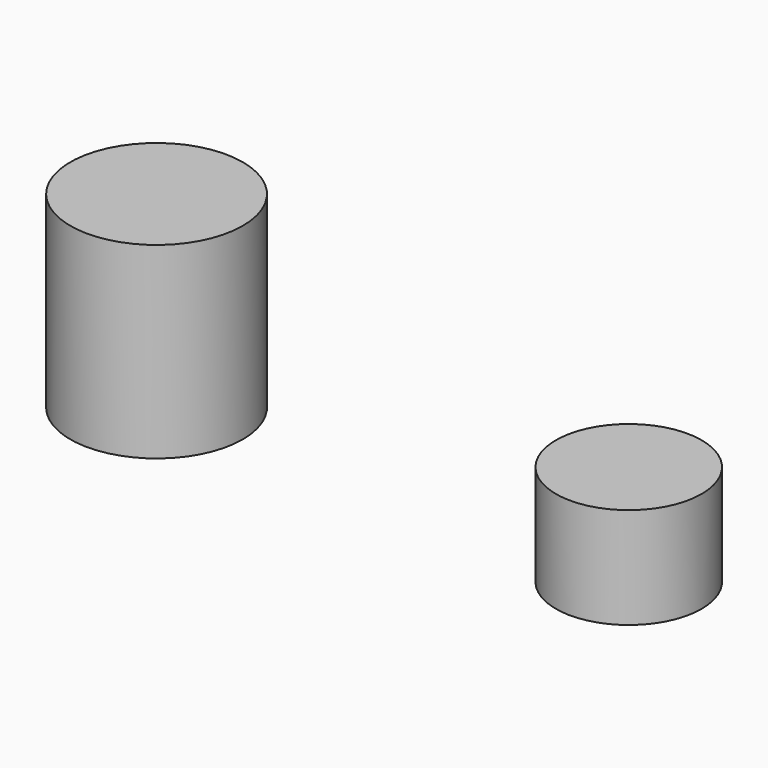
from build123d import *

# Parameters (mm, degrees)
F0_R     = 7.25
F1_DEPTH = 15.8
F2_R     = 6.125
F3_DEPTH = 8.5


with BuildPart() as f1:
    # F0 (on Top) → F1 (new body)
    with BuildSketch(Plane.XY):
        with Locations((-21.442102, 0)):
            Circle(F0_R)
    extrude(amount=F1_DEPTH)


with BuildPart() as f3:
    # F2 (on Top) → F3 (new body)
    with BuildSketch(Plane.XY):
        with Locations((18.246252, 0)):
            Circle(F2_R)
    extrude(amount=F3_DEPTH)


solid = Compound([f1.part, f3.part])
